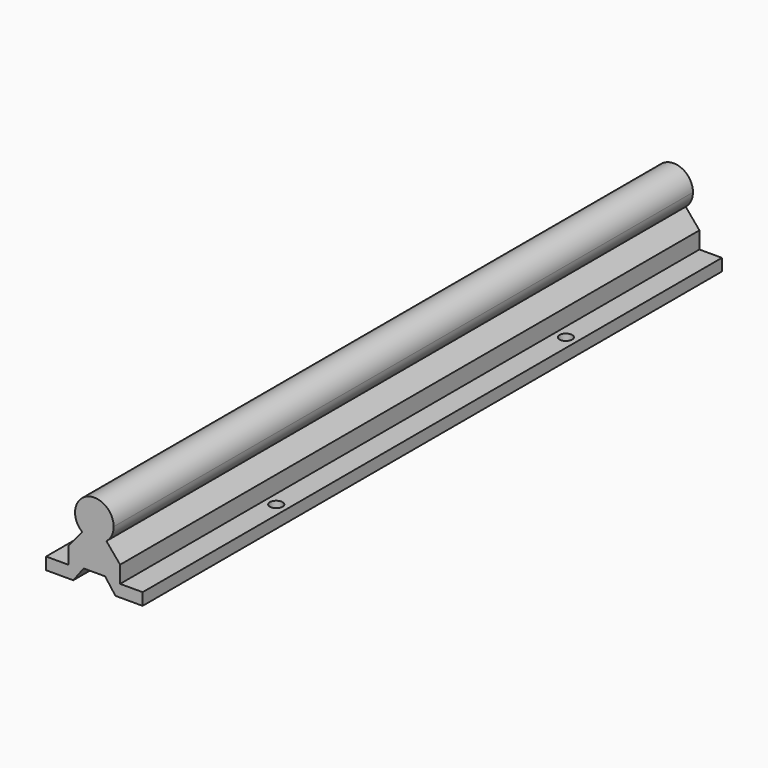
from build123d import *

# Parameters (mm, degrees)
F1_DEPTH = 300
F2_R     = 2.6162
F3_DEPTH = 33.001


with BuildPart() as f1:
    # F0 (on Front) → F1 (new body)
    with BuildSketch(Plane.XZ):
        with BuildLine():
            ThreePointArc((5, -6.244998), (7.211103, -3.464102), (8, 0))
            ThreePointArc((8, 0), (-3.464102, 7.211103), (-5, -6.244998))
            ThreePointArc((-5, -6.244998), (0, -8), (5, -6.244998))
        make_face()
        with BuildLine():
            ThreePointArc((5, -6.244998), (0, -8), (-5, -6.244998))
            Line((-5, -6.244998), (-10.66812, -13))
            Line((-10.66812, -13), (-10.66812, -20))
            Line((-10.66812, -20), (-20, -20))
            Line((-20, -20), (-20, -25))
            Line((-20, -25), (-8.73125, -25))
            Line((-8.73125, -25), (-4.445, -19.26976))
            Line((-4.445, -19.26976), (4.445, -19.26976))
            Line((4.445, -19.26976), (8.73125, -25))
            Line((8.73125, -25), (20, -25))
            Line((20, -25), (20, -20))
            Line((20, -20), (16.541817, -20))
            Line((16.541817, -20), (10.66812, -20))
            Line((10.66812, -20), (10.66812, -13))
            Line((10.66812, -13), (5, -6.244998))
        make_face()
    extrude(amount=F1_DEPTH)

    # F2 (on face) → F3 (cut, through all)
    with BuildSketch(Plane(origin=(0, 0, -25), x_dir=(1, 0, 0), z_dir=(0, 0, -1))):
        with Locations((15.3441, 225)):
            Circle(F2_R)
        with Locations((-15.3391, 225)):
            Circle(F2_R)
        with Locations((15.3441, 75)):
            Circle(F2_R)
        with Locations((-15.3391, 75)):
            Circle(F2_R)
    extrude(amount=-F3_DEPTH, mode=Mode.SUBTRACT)


solid = f1.part
